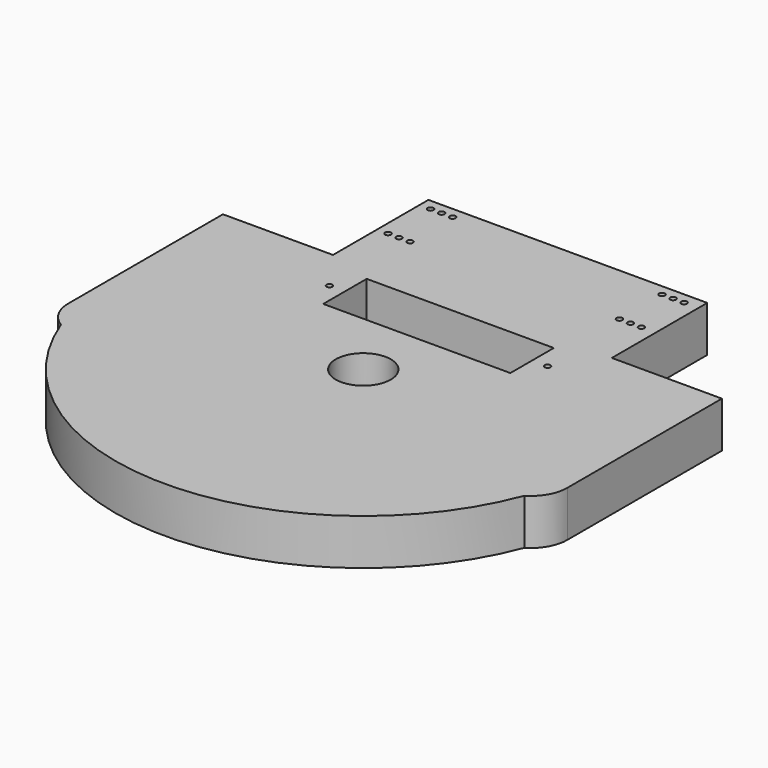
from build123d import *

# Parameters (mm, degrees)
F0_R     = 15
F0_R_2   = 1.6
F0_W     = 102
F0_H     = 29.597664
F1_DEPTH = 25
F2_DEPTH = 25


with BuildPart() as f1:
    # F0 (on Top) → F1 (new body)
    with BuildSketch(Plane.XY):
        with BuildLine():
            Line((76, 93.350048), (0, 93.350048))
            Line((0, 93.350048), (-76, 93.350048))
            Line((-76, 93.350048), (-76, 28.350048))
            Line((-76, 28.350048), (-136, 28.350048))
            Line((-136, 28.350048), (-136, -76.986715))
            ThreePointArc((-136, -76.986715), (-133.398174, -86.850972), (-126.269644, -94.14872))
            ThreePointArc((-126.269644, -94.14872), (0, -181.145858), (126.269644, -94.14872))
            ThreePointArc((126.269644, -94.14872), (133.398174, -86.850972), (136, -76.986715))
            Line((136, -76.986715), (136, 28.350048))
            Line((136, 28.350048), (76, 28.350048))
            Line((76, 28.350048), (76, 93.350048))
        make_face()
        with Locations((0, -46.011958)):
            Circle(F0_R, mode=Mode.SUBTRACT)
        with Locations((-59.481014, 5.299877)):
            Circle(F0_R_2, mode=Mode.SUBTRACT)
        with Locations((-0.031014, 5.299877)):
            Rectangle(F0_W, F0_H, mode=Mode.SUBTRACT)
        with Locations((-70, 58.350048)):
            Circle(F0_R_2, mode=Mode.SUBTRACT)
        with Locations((-70, 87.350048)):
            Circle(F0_R_2, mode=Mode.SUBTRACT)
        with Locations((-64, 58.350048)):
            Circle(F0_R_2, mode=Mode.SUBTRACT)
        with Locations((-58, 58.350048)):
            Circle(F0_R_2, mode=Mode.SUBTRACT)
        with Locations((-64, 87.350048)):
            Circle(F0_R_2, mode=Mode.SUBTRACT)
        with Locations((-58, 87.350048)):
            Circle(F0_R_2, mode=Mode.SUBTRACT)
        with Locations((59.418986, 5.299877)):
            Circle(F0_R_2, mode=Mode.SUBTRACT)
        with Locations((56.15901, 58.350048)):
            Circle(F0_R_2, mode=Mode.SUBTRACT)
        with Locations((62.15901, 58.350048)):
            Circle(F0_R_2, mode=Mode.SUBTRACT)
        with Locations((56.15901, 87.350048)):
            Circle(F0_R_2, mode=Mode.SUBTRACT)
        with Locations((62.15901, 87.350048)):
            Circle(F0_R_2, mode=Mode.SUBTRACT)
        with Locations((68.15901, 58.350048)):
            Circle(F0_R_2, mode=Mode.SUBTRACT)
        with Locations((68.15901, 87.350048)):
            Circle(F0_R_2, mode=Mode.SUBTRACT)
    extrude(amount=F1_DEPTH)

    # F0 (on Top) → F2 (join)
    with BuildSketch(Plane.XY):
        with BuildLine():
            Line((76, 93.350048), (0, 93.350048))
            Line((0, 93.350048), (-76, 93.350048))
            Line((-76, 93.350048), (-76, 28.350048))
            Line((-76, 28.350048), (-136, 28.350048))
            Line((-136, 28.350048), (-136, -76.986715))
            ThreePointArc((-136, -76.986715), (-133.398174, -86.850972), (-126.269644, -94.14872))
            ThreePointArc((-126.269644, -94.14872), (0, -181.145858), (126.269644, -94.14872))
            ThreePointArc((126.269644, -94.14872), (133.398174, -86.850972), (136, -76.986715))
            Line((136, -76.986715), (136, 28.350048))
            Line((136, 28.350048), (76, 28.350048))
            Line((76, 28.350048), (76, 93.350048))
        make_face()
        with Locations((0, -46.011958)):
            Circle(F0_R, mode=Mode.SUBTRACT)
        with Locations((-59.481014, 5.299877)):
            Circle(F0_R_2, mode=Mode.SUBTRACT)
        with Locations((-0.031014, 5.299877)):
            Rectangle(F0_W, F0_H, mode=Mode.SUBTRACT)
        with Locations((-70, 58.350048)):
            Circle(F0_R_2, mode=Mode.SUBTRACT)
        with Locations((-70, 87.350048)):
            Circle(F0_R_2, mode=Mode.SUBTRACT)
        with Locations((-64, 58.350048)):
            Circle(F0_R_2, mode=Mode.SUBTRACT)
        with Locations((-58, 58.350048)):
            Circle(F0_R_2, mode=Mode.SUBTRACT)
        with Locations((-64, 87.350048)):
            Circle(F0_R_2, mode=Mode.SUBTRACT)
        with Locations((-58, 87.350048)):
            Circle(F0_R_2, mode=Mode.SUBTRACT)
        with Locations((59.418986, 5.299877)):
            Circle(F0_R_2, mode=Mode.SUBTRACT)
        with Locations((56.15901, 58.350048)):
            Circle(F0_R_2, mode=Mode.SUBTRACT)
        with Locations((62.15901, 58.350048)):
            Circle(F0_R_2, mode=Mode.SUBTRACT)
        with Locations((56.15901, 87.350048)):
            Circle(F0_R_2, mode=Mode.SUBTRACT)
        with Locations((62.15901, 87.350048)):
            Circle(F0_R_2, mode=Mode.SUBTRACT)
        with Locations((68.15901, 58.350048)):
            Circle(F0_R_2, mode=Mode.SUBTRACT)
        with Locations((68.15901, 87.350048)):
            Circle(F0_R_2, mode=Mode.SUBTRACT)
    extrude(amount=F2_DEPTH)


solid = f1.part
